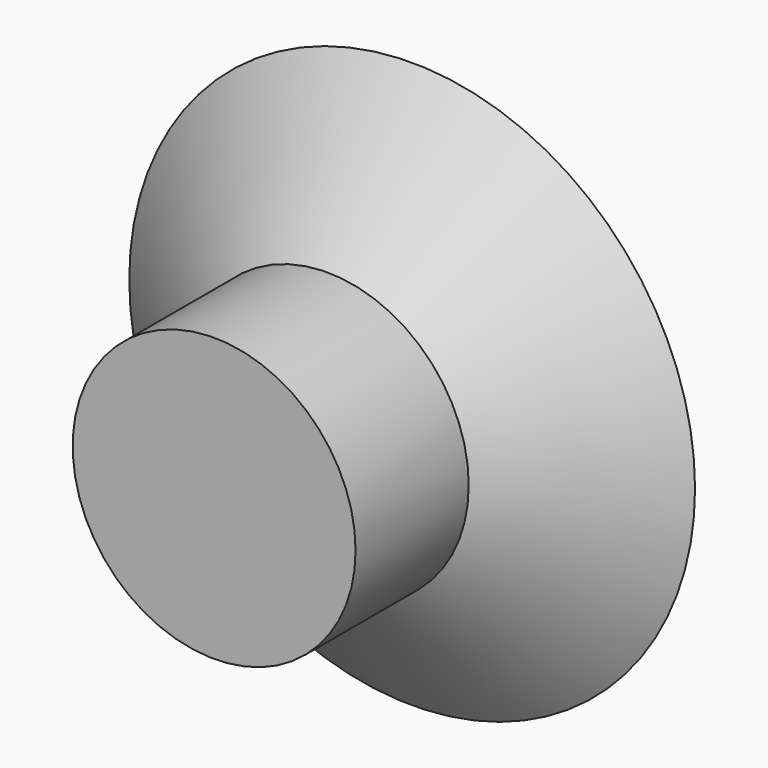
from build123d import *

# Parameters (mm, degrees)
F0_R     = 50.8
F2_R     = 25.4
F4_DEPTH = 25.4


with BuildPart() as f3:
    # F0 (on Front) → F3 section 0
    with BuildSketch(Plane.XZ):
        Circle(F0_R)
    # F2 (on offset) → F3 section 1
    with BuildSketch(Plane.XZ.offset(19.05)):
        Circle(F2_R)
    loft()

    # F2 (on offset) → F4 (join)
    with BuildSketch(Plane.XZ.offset(19.05)):
        Circle(F2_R)
    extrude(amount=F4_DEPTH)


solid = f3.part
